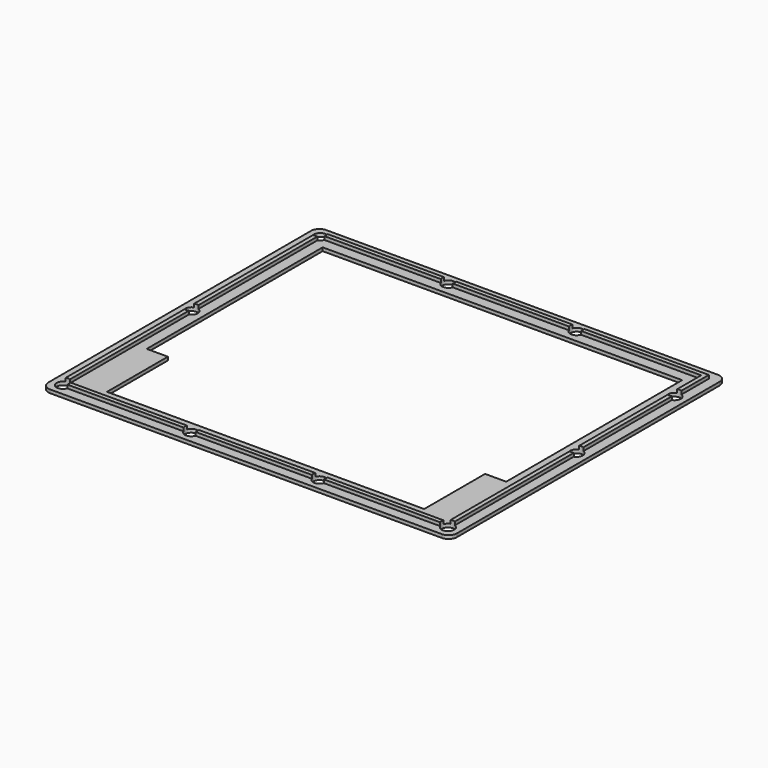
from build123d import *

# Parameters (mm, degrees)
PAD011_DEPTH         = 0.8
SKETCH019_W          = 92
SKETCH019_H          = 77
SKETCH019_W_2        = 90
SKETCH019_H_2        = 75
PAD012_DEPTH         = 1.6
SKETCH018_R          = 1.5
POCKET007_DEPTH      = 1.6
POCKET007_DEPTH_BACK = 0.8


with BuildPart() as part:
    # Sketch017 (on XY_Plane002 of Origin004) → Pad011 (new body)
    with BuildSketch(Plane.XY):
        with BuildLine():
            Line((48.3, -38.8), (48.3, 38.8))
            ThreePointArc((48.3, 38.8), (47.714214, 40.214214), (46.3, 40.8))
            Line((46.3, 40.8), (-46.3, 40.8))
            ThreePointArc((-46.3, 40.8), (-47.714214, 40.214214), (-48.3, 38.8))
            Line((-48.3, 38.8), (-48.3, -38.8))
            ThreePointArc((-48.3, -38.8), (-47.714214, -40.214214), (-46.3, -40.8))
            Line((-46.3, -40.8), (46.3, -40.8))
            ThreePointArc((46.3, -40.8), (47.714214, -40.214214), (48.3, -38.8))
        make_face()
        Polygon((-42.5, 35), (42.5, 35), (42.5, -17), (37.5, -17), (37.5, -35), (-37.5, -35), (-37.5, -17), (-42.5, -17), align=None, mode=Mode.SUBTRACT)
    extrude(amount=PAD011_DEPTH)

    # Sketch019 (on XY_Plane002 of Origin004) → Pad012 (join)
    with BuildSketch(Plane.XY):
        Rectangle(SKETCH019_W, SKETCH019_H)
        Rectangle(SKETCH019_W_2, SKETCH019_H_2, mode=Mode.SUBTRACT)
    extrude(amount=PAD012_DEPTH)

    # Sketch018 (on XY_Plane002 of Origin004) → Pocket007 (cut, two sides)
    with BuildSketch(Plane.XY) as pocket007_sk:
        with Locations((-45.5, 38)):
            Circle(SKETCH018_R)
        with Locations((-15.166667, 38)):
            Circle(SKETCH018_R)
        with Locations((15.166667, 38)):
            Circle(SKETCH018_R)
        with Locations((45.5, 29)):
            Circle(SKETCH018_R)
        with Locations((45.5, 0)):
            Circle(SKETCH018_R)
        with Locations((45.5, -38)):
            Circle(SKETCH018_R)
        with Locations((15.166667, -38)):
            Circle(SKETCH018_R)
        with Locations((-15.166667, -38)):
            Circle(SKETCH018_R)
        with Locations((-45.5, -38)):
            Circle(SKETCH018_R)
        with Locations((-45.5, 0)):
            Circle(SKETCH018_R)
    extrude(amount=POCKET007_DEPTH, mode=Mode.SUBTRACT)
    extrude(pocket007_sk.sketch, amount=-POCKET007_DEPTH_BACK, mode=Mode.SUBTRACT)


with BuildPart() as part_1:
    # Body002 placement: moved
    add(part.part.moved(Location((0, 0, 34))))


solid = part_1.part
